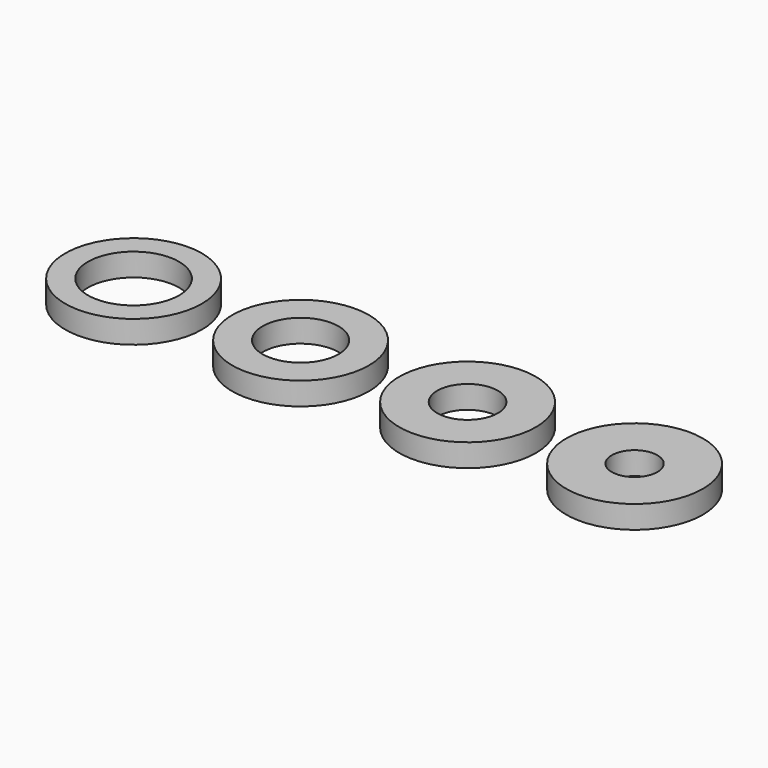
from build123d import *

# Parameters (mm, degrees)
F0_R     = 9
F0_R_2   = 6
F0_R_3   = 5
F0_R_4   = 4
F0_R_5   = 3
F1_DEPTH = 3


with BuildPart() as f1:
    # F0 (on Top) → F1 (new body)
    with BuildSketch(Plane.XY):
        Circle(F0_R)
        Circle(F0_R_2, mode=Mode.SUBTRACT)
        with Locations((22, 0)):
            Circle(F0_R)
        with Locations((22, 0)):
            Circle(F0_R_3, mode=Mode.SUBTRACT)
        with Locations((44, 0)):
            Circle(F0_R)
        with Locations((44, 0)):
            Circle(F0_R_4, mode=Mode.SUBTRACT)
        with Locations((66, 0)):
            Circle(F0_R)
        with Locations((66, 0)):
            Circle(F0_R_5, mode=Mode.SUBTRACT)
    extrude(amount=F1_DEPTH)


solid = f1.part
